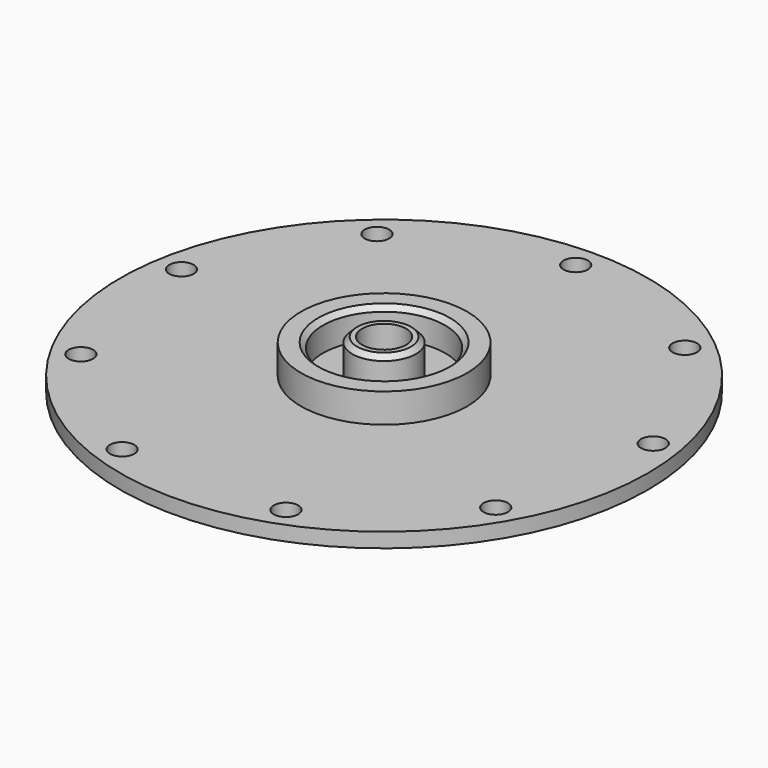
from build123d import *

# Parameters (mm, degrees)
SKETCH_R        = 54
SKETCH_R_2      = 4.5
SKETCH_R_3      = 2.5
PAD_DEPTH       = 3
SKETCH001_R     = 6.5
SKETCH001_R_2   = 4.5
PAD001_DEPTH    = 7
CHAMFER_SIZE    = 1
SKETCH002_R     = 17
SKETCH002_R_2   = 12.5
PAD002_DEPTH    = 6
CHAMFER001_SIZE = 1


with BuildPart() as part:
    # Sketch → Pad (new body)
    with BuildSketch(Plane.XY):
        Circle(SKETCH_R)
        Circle(SKETCH_R_2, mode=Mode.SUBTRACT)
        with Locations((0, 49)):
            Circle(SKETCH_R_3, mode=Mode.SUBTRACT)
        with Locations((48.25558, 8.508761)):
            Circle(SKETCH_R_3, mode=Mode.SUBTRACT)
        with Locations((42.435245, -24.5)):
            Circle(SKETCH_R_3, mode=Mode.SUBTRACT)
        with Locations((16.758987, -46.044938)):
            Circle(SKETCH_R_3, mode=Mode.SUBTRACT)
        with Locations((-16.758987, -46.044938)):
            Circle(SKETCH_R_3, mode=Mode.SUBTRACT)
        with Locations((-42.435245, -24.5)):
            Circle(SKETCH_R_3, mode=Mode.SUBTRACT)
        with Locations((-48.25558, 8.508761)):
            Circle(SKETCH_R_3, mode=Mode.SUBTRACT)
        with Locations((-31.496593, 37.536178)):
            Circle(SKETCH_R_3, mode=Mode.SUBTRACT)
        with Locations((31.496593, 37.536178)):
            Circle(SKETCH_R_3, mode=Mode.SUBTRACT)
    extrude(amount=PAD_DEPTH)

    # Sketch001 (on Face13 of Pad) → Pad001 (join)
    with BuildSketch(Plane.XY.offset(3)):
        Circle(SKETCH001_R)
        Circle(SKETCH001_R_2, mode=Mode.SUBTRACT)
    extrude(amount=PAD001_DEPTH)

    # Chamfer
    chamfer_edges = [part.edges().sort_by_distance(p)[0] for p in [
        (-6.5, 0, 10),
    ]]
    chamfer(chamfer_edges, length=CHAMFER_SIZE)

    # Sketch002 (on Face3 of Chamfer) → Pad002 (join)
    with BuildSketch(Plane.XY.offset(3)):
        Circle(SKETCH002_R)
        Circle(SKETCH002_R_2, mode=Mode.SUBTRACT)
    extrude(amount=PAD002_DEPTH)

    # Chamfer001
    chamfer001_edges = [part.edges().sort_by_distance(p)[0] for p in [
        (-12.5, 0, 9),
    ]]
    chamfer(chamfer001_edges, length=CHAMFER001_SIZE)


solid = part.part
